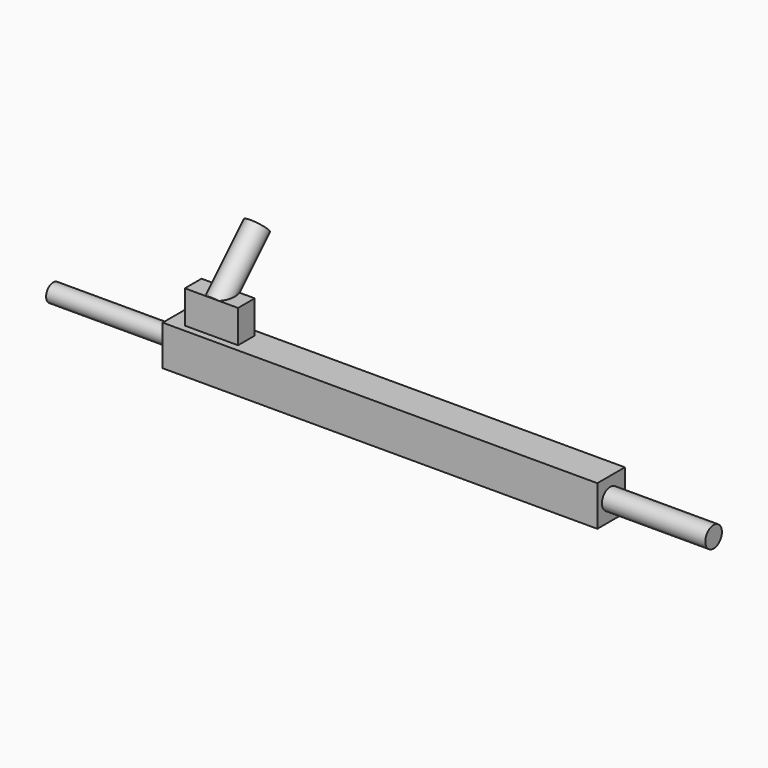
from build123d import *

# Parameters (mm, degrees)
F0_W      = 642.00504
F0_H      = 59.35203
F1_DEPTH  = 50.8
F2_R      = 13.138682
F3_DEPTH  = 181.356
F4_R      = 15.361359
F5_DEPTH  = 152.654
F6_W      = 78.62696
F6_H      = 30.816156
F7_DEPTH  = 48.514
F9_R      = 16.886995
F10_DEPTH = 101.6


with BuildPart() as f1:
    # F0 (on Front) → F1 (new body)
    with BuildSketch(Plane.XZ):
        Rectangle(F0_W, F0_H)
    extrude(amount=F1_DEPTH)

    # F2 (on face) → F3 (join)
    with BuildSketch(Plane(origin=(-321.00252, 0, 0), x_dir=(0, -1, 0), z_dir=(-1, 0, 0))):
        with Locations((26.228841, 0)):
            Circle(F2_R)
    extrude(amount=F3_DEPTH)

    # F4 (on face) → F5 (join)
    with BuildSketch(Plane.YZ.offset(321.00252)):
        with Locations((-27.018422, 0)):
            Circle(F4_R)
    extrude(amount=F5_DEPTH)

    # F6 (on face) → F7 (join)
    with BuildSketch(Plane.XY.offset(29.676015)):
        with Locations((-257.074803, -25.283979)):
            Rectangle(F6_W, F6_H)
    extrude(amount=F7_DEPTH)

    # F9 (on face) → F10 (join)
    with BuildSketch(Plane(origin=(0, 18.748979, 18.748979), x_dir=(1, 0, 0), z_dir=(0, -0.707107, -0.707107))):
        with Locations((-255.314887, 70.006117)):
            Circle(F9_R)
    extrude(amount=-F10_DEPTH)


solid = f1.part
